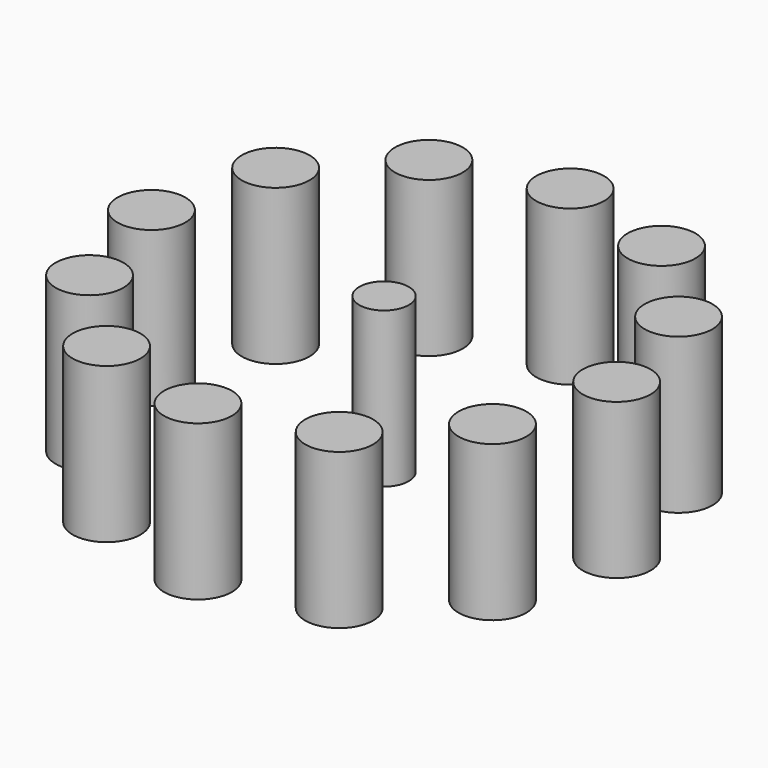
from build123d import *

# Parameters (mm, degrees)
F0_R     = 3.5
F0_R_2   = 2.551567
F1_DEPTH = 16


with BuildPart() as f1:
    # F0 (on Top) → F1 (new body)
    with BuildSketch(Plane.XY):
        with Locations((20.78461, 12)):
            Circle(F0_R)
        with Locations((24, 0)):
            Circle(F0_R)
        with Locations((12, 20.78461)):
            Circle(F0_R)
        with Locations((20.78461, -12)):
            Circle(F0_R)
        with Locations((12, -20.78461)):
            Circle(F0_R)
        with Locations((0, -24)):
            Circle(F0_R)
        with Locations((-12, -20.78461)):
            Circle(F0_R)
        with Locations((-20.78461, -12)):
            Circle(F0_R)
        with Locations((-24, 0)):
            Circle(F0_R)
        with Locations((-20.78461, 12)):
            Circle(F0_R)
        with Locations((-12, 20.78461)):
            Circle(F0_R)
        with Locations((0, 24)):
            Circle(F0_R)
        Circle(F0_R_2)
    extrude(amount=F1_DEPTH)


solid = f1.part
